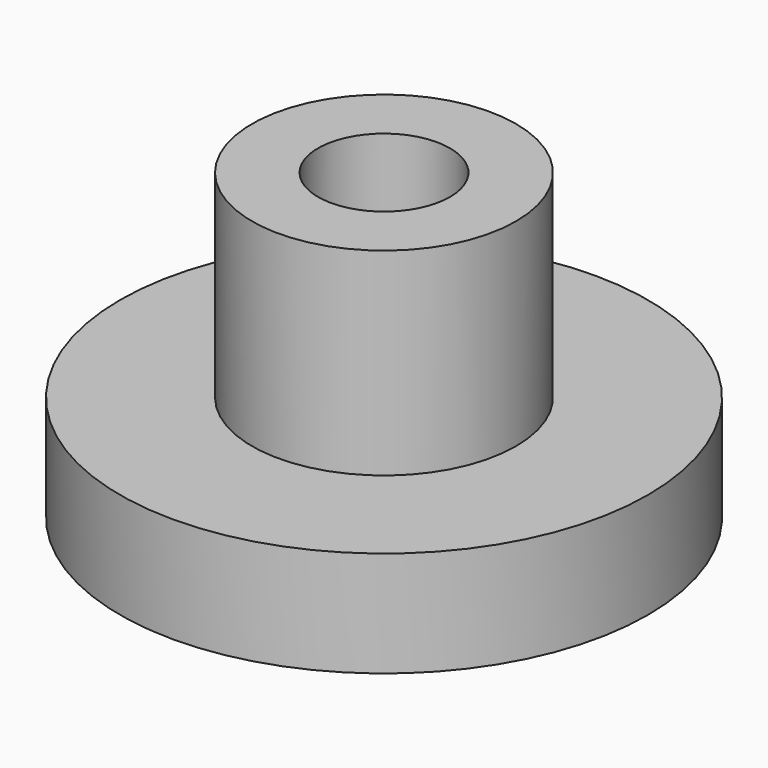
from build123d import *

# Parameters (mm, degrees)
CYLINDER003_R     = 2.5
CYLINDER003_DEPTH = 11.5
CYLINDER022_R     = 5
CYLINDER022_DEPTH = 11.5
CYLINDER002_R     = 10
CYLINDER002_DEPTH = 4


with BuildPart() as cylinder003:
    # Cylinder003 → Cylinder003 (new body)
    with BuildSketch(Plane.XY):
        Circle(CYLINDER003_R)
    extrude(amount=CYLINDER003_DEPTH)


with BuildPart() as cylinder022:
    # Cylinder022 → Cylinder022 (new body)
    with BuildSketch(Plane.XY):
        Circle(CYLINDER022_R)
    extrude(amount=CYLINDER022_DEPTH)


with BuildPart() as obj1:
    # Cylinder002 → Cylinder002 (new body)
    with BuildSketch(Plane.XY):
        Circle(CYLINDER002_R)
    extrude(amount=CYLINDER002_DEPTH)

    # Fusion001018017021: union Cylinder022
    add(cylinder022.part)

    # Cut: cut Cylinder003
    add(cylinder003.part, mode=Mode.SUBTRACT)


solid = obj1.part
